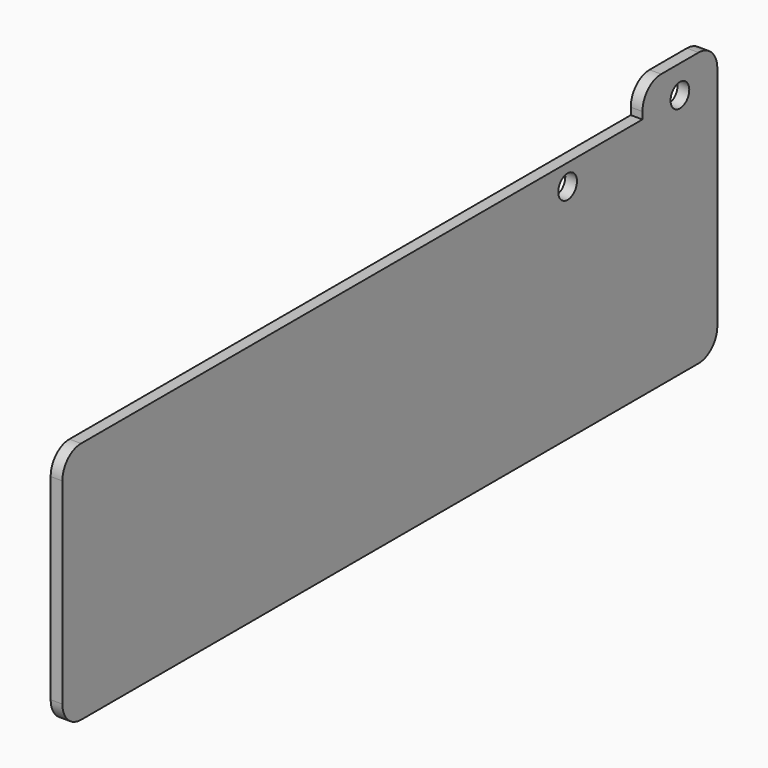
from build123d import *

# Parameters (mm, degrees)
F0_R     = 5
F1_DEPTH = 5


with BuildPart() as f1:
    # F0 (on Right) → F1 (new body)
    with BuildSketch(Plane.YZ):
        with BuildLine():
            Line((-20, -1), (-320, -1))
            ThreePointArc((-320, -1), (-327.071068, -3.928932), (-330, -11))
            Line((-330, -11), (-330, -95))
            ThreePointArc((-330, -95), (-327.071068, -102.071068), (-320, -105))
            Line((-320, -105), (10, -105))
            ThreePointArc((10, -105), (17.071068, -102.071068), (20, -95))
            Line((20, -95), (20, 2))
            ThreePointArc((20, 2), (17.071068, 9.071068), (10, 12))
            Line((10, 12), (-10, 12))
            ThreePointArc((-10, 12), (-17.071068, 9.071068), (-20, 2))
            Line((-20, 2), (-20, -1))
        make_face()
        with Locations((-60, -10)):
            Circle(F0_R, mode=Mode.SUBTRACT)
        Circle(F0_R, mode=Mode.SUBTRACT)
        with BuildLine():
            Line((-20, -1), (-320, -1))
            ThreePointArc((-320, -1), (-327.071068, -3.928932), (-330, -11))
            Line((-330, -11), (-330, -95))
            ThreePointArc((-330, -95), (-327.071068, -102.071068), (-320, -105))
            Line((-320, -105), (10, -105))
            ThreePointArc((10, -105), (17.071068, -102.071068), (20, -95))
            Line((20, -95), (20, 2))
            ThreePointArc((20, 2), (17.071068, 9.071068), (10, 12))
            Line((10, 12), (-10, 12))
            ThreePointArc((-10, 12), (-17.071068, 9.071068), (-20, 2))
            Line((-20, 2), (-20, -1))
        make_face()
        with Locations((-60, -10)):
            Circle(F0_R, mode=Mode.SUBTRACT)
        Circle(F0_R, mode=Mode.SUBTRACT)
    extrude(amount=F1_DEPTH)


solid = f1.part
